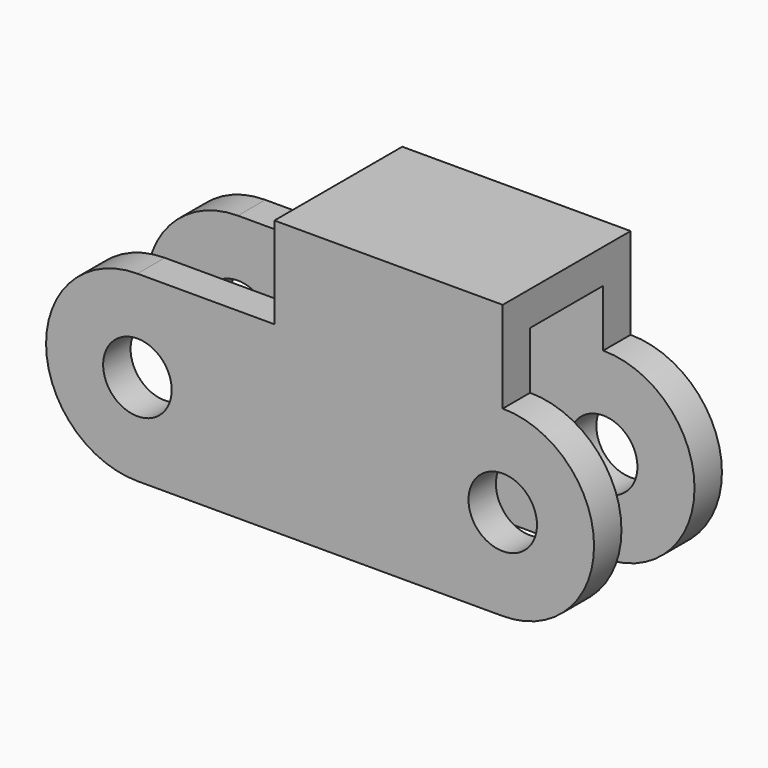
from build123d import *

# Parameters (mm, degrees)
F0_R     = 3
F1_DEPTH = 14
F2_T     = -3


with BuildPart() as f1:
    # F0 (on Front) → F1 (new body)
    with BuildSketch(Plane.XZ):
        with BuildLine():
            ThreePointArc((-32, -8), (-24, 0), (-32, 8))
            ThreePointArc((-32, 8), (-40, 0), (-32, -8))
        make_face()
        with Locations((-32, 0)):
            Circle(F0_R, mode=Mode.SUBTRACT)
        with BuildLine():
            Line((-20, 8), (-32, 8))
            ThreePointArc((-32, 8), (-24, 0), (-32, -8))
            Line((-32, -8), (0, -8))
            ThreePointArc((0, -8), (-8, 0), (0, 8))
            Line((0, 8), (0, 16))
            Line((0, 16), (-20, 16))
            Line((-20, 16), (-20, 8))
        make_face()
        with BuildLine():
            ThreePointArc((0, 8), (-8, 0), (0, -8))
            ThreePointArc((0, -8), (8, 0), (0, 8))
        make_face()
        Circle(F0_R, mode=Mode.SUBTRACT)
    extrude(amount=F1_DEPTH)

    # F2
    f2_openings = [f1.faces().sort_by_distance(p)[0] for p in [
        (-26, -7, 8),
        (-20, -7, 12),
        (-16, -7, -8),
        (0, -7, 12),
        (8, -7, 0),
        (-40, -7, 0),
        (-35, -7, 0),
        (-3, -7, 0),
    ]]
    offset(amount=F2_T, openings=f2_openings)


solid = f1.part
